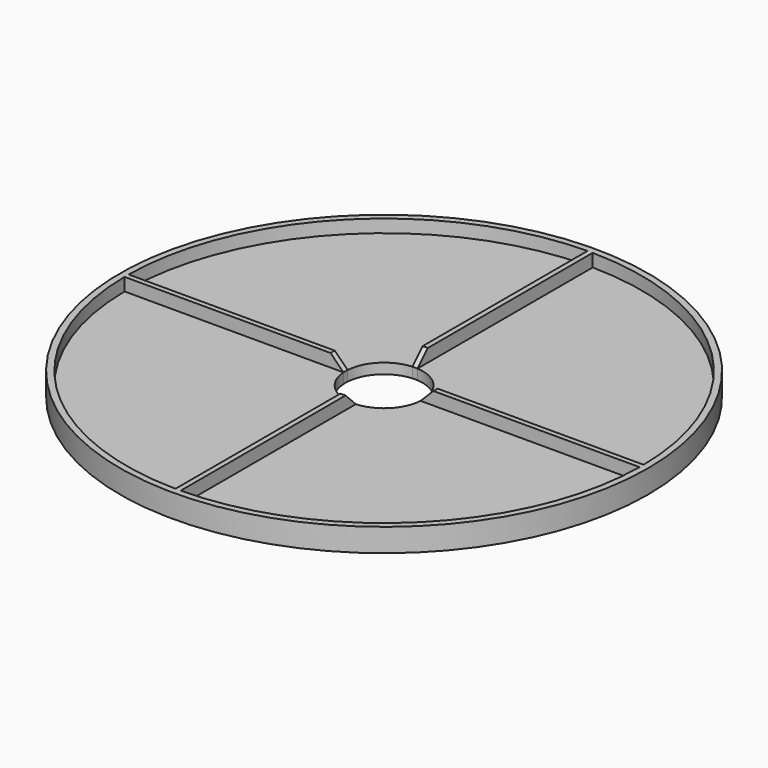
from build123d import *

# Parameters (mm, degrees)
F1_DEPTH = 4
F0_R     = 102.5
F2_DEPTH = 9
F3_SIZE  = 5


with BuildPart() as f1:
    # F0 (on Top) → F1 (new body)
    with BuildSketch(Plane.XY):
        with BuildLine():
            Line((-1, -99.994999875), (-1, -14.9666295471))
            ThreePointArc((-1, -14.9666295471), (-10.6066017178, -10.6066017178), (-14.9666295471, -1))
            Line((-14.9666295471, -1), (-99.994999875, -1))
            ThreePointArc((-99.994999875, -1), (-70.7106781187, -70.7106781187), (-1, -99.994999875))
        make_face()
    extrude(amount=F1_DEPTH)



with BuildPart() as f1b:
    # F0 (on Top) → F1, piece 2 (new body)
    with BuildSketch(Plane.XY):
        with BuildLine():
            Line((99.994999875, -1), (14.9666295471, -1))
            ThreePointArc((14.9666295471, -1), (10.6066017178, -10.6066017178), (1, -14.9666295471))
            Line((1, -14.9666295471), (1, -99.994999875))
            ThreePointArc((1, -99.994999875), (70.7106781187, -70.7106781187), (99.994999875, -1))
        make_face()
    extrude(amount=F1_DEPTH)


with BuildPart() as f1c:
    # F0 (on Top) → F1, piece 3 (new body)
    with BuildSketch(Plane.XY):
        with BuildLine():
            ThreePointArc((1, 14.9666295471), (10.6066017178, 10.6066017178), (14.9666295471, 1))
            Line((14.9666295471, 1), (99.994999875, 1))
            ThreePointArc((99.994999875, 1), (70.7106781187, 70.7106781187), (1, 99.994999875))
            Line((1, 99.994999875), (1, 14.9666295471))
        make_face()
    extrude(amount=F1_DEPTH)


with BuildPart() as f1d:
    # F0 (on Top) → F1, piece 4 (new body)
    with BuildSketch(Plane.XY):
        with BuildLine():
            ThreePointArc((-14.9666295471, 1), (-10.6066017178, 10.6066017178), (-1, 14.9666295471))
            Line((-1, 14.9666295471), (-1, 99.994999875))
            ThreePointArc((-1, 99.994999875), (-70.7106781187, 70.7106781187), (-99.994999875, 1))
            Line((-99.994999875, 1), (-14.9666295471, 1))
        make_face()
    extrude(amount=F1_DEPTH)


with BuildPart() as f1_1:
    add(f1.part)

    add(f1b.part)  # F2 merges F1b

    add(f1c.part)  # F2 merges F1c

    add(f1d.part)  # F2 merges F1d
    # F0 (on Top) → F2 (join)
    with BuildSketch(Plane.XY):
        Circle(F0_R)
        with BuildLine():
            ThreePointArc((14.9666295471, 1), (14.9916550655, 0.5002783193), (15, 0))
            ThreePointArc((15, 0), (14.9916550655, -0.5002783193), (14.9666295471, -1))
            Line((14.9666295471, -1), (99.994999875, -1))
            ThreePointArc((99.994999875, -1), (70.7106781187, -70.7106781187), (1, -99.994999875))
            Line((1, -99.994999875), (1, -14.9666295471))
            ThreePointArc((1, -14.9666295471), (0, -15), (-1, -14.9666295471))
            Line((-1, -14.9666295471), (-1, -99.994999875))
            ThreePointArc((-1, -99.994999875), (-70.7106781187, -70.7106781187), (-99.994999875, -1))
            Line((-99.994999875, -1), (-14.9666295471, -1))
            ThreePointArc((-14.9666295471, -1), (-15, 0), (-14.9666295471, 1))
            Line((-14.9666295471, 1), (-99.994999875, 1))
            ThreePointArc((-99.994999875, 1), (-70.7106781187, 70.7106781187), (-1, 99.994999875))
            Line((-1, 99.994999875), (-1, 14.9666295471))
            ThreePointArc((-1, 14.9666295471), (0, 15), (1, 14.9666295471))
            Line((1, 14.9666295471), (1, 99.994999875))
            ThreePointArc((1, 99.994999875), (70.7106781187, 70.7106781187), (99.994999875, 1))
            Line((99.994999875, 1), (14.9666295471, 1))
        make_face(mode=Mode.SUBTRACT)
    extrude(amount=F2_DEPTH)

    # F3
    f3_edges = [f1_1.edges().sort_by_distance(p)[0] for p in [
        (0, -15, 9),
        (-15, 0, 9),
        (0, 15, 9),
        (15, 0, 9),
    ]]
    chamfer(f3_edges, length=F3_SIZE)


solid = f1_1.part
